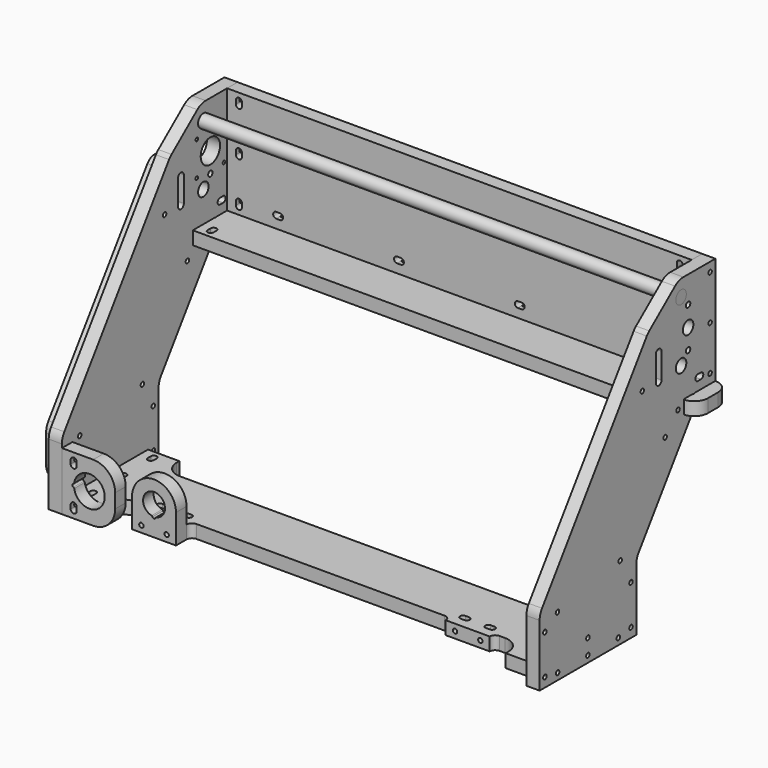
from build123d import *

# Parameters (mm, degrees)
F1_W      = 423
F1_H      = 98
F2_DEPTH  = 12
F4_DEPTH  = 12
F5_R      = 5.975
F5_R_2    = 11
F5_R_3    = 1.5
F5_R_4    = 2.5
F6_DEPTH  = 25
F7_R      = 6
F8_DEPTH  = 447
F9_R      = 5.975
F9_R_2    = 2.5
F9_R_3    = 6
F10_DEPTH = 12
F12_DEPTH = 12
F14_DEPTH = 12
F16_DEPTH = 25
F18_DEPTH = 12
F19_R     = 2
F20_DEPTH = 21
F22_DEPTH = 25
F23_R     = 2
F24_DEPTH = 21
F25_SIZE2 = 35
F25_SIZE  = 15
F26_SIZE2 = 15
F26_SIZE  = 35
F27_R     = 15
F27_2_R   = 15
F28_R     = 2
F29_DEPTH = 21
F31_DEPTH = 12
F32_R     = 15
F33_R     = 2
F34_DEPTH = 471.501
F35_R     = 2
F36_DEPTH = 12
F37_R     = 2
F38_DEPTH = 10
F39_R     = 1


with BuildPart() as f2:
    # F1 (on Front) → F2 (new body)
    with BuildSketch(Plane.XZ):
        with Locations((0, 49)):
            Rectangle(F1_W, F1_H)
    extrude(amount=F2_DEPTH)


with BuildPart() as f4:
    # F3 (on face) → F4 (new body)
    with BuildSketch(Plane(origin=(-211.5, 0, 0), x_dir=(0, -1, 0), z_dir=(-1, 0, 0))):
        Polygon((56.6998794181, 98), (0, 98), (0, 0), (24, 0), (24, -12), (90, -105.919646507), (90, -167), (200, -167), (200, -105.919646507), align=None)
    extrude(amount=F4_DEPTH)

    # F5 (on face) → F6 (cut)
    with BuildSketch(Plane.YZ.offset(-211.5)):
        with Locations((-39, 28)):
            Circle(F5_R)
        with Locations((-39, 83)):
            Circle(F5_R)
        with Locations((-31, 55.5)):
            Circle(F5_R_2)
        with Locations((-46.5, 71)):
            Circle(F5_R_3)
        with Locations((-46.5, 40)):
            Circle(F5_R_3)
        with Locations((-15.5, 40)):
            Circle(F5_R_3)
        with Locations((-15.5, 71)):
            Circle(F5_R_3)
        with Locations((-31, 73.75)):
            Circle(F5_R_4)
        with Locations((-31, 37.25)):
            Circle(F5_R_4)
    extrude(amount=-F6_DEPTH, mode=Mode.SUBTRACT)


with BuildPart() as f8:
    # F7 (on face) → F8 (new body)
    with BuildSketch(Plane(origin=(-223.5, 0, 0), x_dir=(0, -1, 0), z_dir=(-1, 0, 0))):
        with Locations((39, 83)):
            Circle(F7_R)
    extrude(amount=-F8_DEPTH)


with BuildPart() as f10:
    # F9 (on face) → F10 (new body)
    with BuildSketch(Plane.YZ.offset(211.5)):
        Polygon((-90, -167), (-90, -105.919646507), (-24, -12), (-24, 0), (0, 0), (0, 98), (-56.6998794181, 98), (-200, -105.919646507), (-200, -167), align=None)
        with Locations((-39, 28)):
            Circle(F9_R, mode=Mode.SUBTRACT)
        with Locations((-31, 37.25)):
            Circle(F9_R_2, mode=Mode.SUBTRACT)
        with Locations((-31, 55.5)):
            Circle(F9_R_3, mode=Mode.SUBTRACT)
        with Locations((-31, 73.75)):
            Circle(F9_R_2, mode=Mode.SUBTRACT)
        with Locations((-39, 83)):
            Circle(F9_R, mode=Mode.SUBTRACT)
    extrude(amount=F10_DEPTH)


with BuildPart() as f12:
    # F11 (on face) → F12 (new body)
    with BuildSketch(Plane.XZ.offset(200)):
        with BuildLine():
            Line((-211.5, -114), (-211.5, -167))
            Line((-211.5, -167), (-183, -167))
            ThreePointArc((-183, -167), (-168.8578643763, -161.1421356237), (-163, -147))
            Line((-163, -147), (-163, -134))
            ThreePointArc((-163, -134), (-168.8578643763, -119.8578643763), (-183, -114))
            Line((-183, -114), (-211.5, -114))
        make_face()
        with BuildLine():
            ThreePointArc((-200.2997078464, -138.2934895528), (-172.525, -140.5), (-200.2997078464, -142.7065104472))
            ThreePointArc((-200.2997078464, -142.7065104472), (-200.5218329376, -142.2207641448), (-200.9622987478, -141.9186401695))
            ThreePointArc((-200.9622987478, -141.9186401695), (-201.975, -140.5), (-200.9622987478, -139.0813598305))
            ThreePointArc((-200.9622987478, -139.0813598305), (-200.5218329376, -138.7792358552), (-200.2997078464, -138.2934895528))
        make_face(mode=Mode.SUBTRACT)
    extrude(amount=-F12_DEPTH)

    # F15 (on face) → F16 (cut)
    with BuildSketch(Plane.XZ.offset(200)):
        with BuildLine():
            ThreePointArc((-198, -120.75), (-200.75, -118), (-203.5, -120.75))
            Line((-203.5, -120.75), (-203.5, -124.25))
            ThreePointArc((-203.5, -124.25), (-200.75, -127), (-198, -124.25))
            Line((-198, -124.25), (-198, -120.75))
        make_face()
        with BuildLine():
            ThreePointArc((-203.5, -160.25), (-200.75, -163), (-198, -160.25))
            Line((-198, -160.25), (-198, -156.75))
            ThreePointArc((-198, -156.75), (-200.75, -154), (-203.5, -156.75))
            Line((-203.5, -156.75), (-203.5, -160.25))
        make_face()
    extrude(amount=-F16_DEPTH, mode=Mode.SUBTRACT)


with BuildPart() as f14:
    # F13 (on face) → F14 (new body)
    with BuildSketch(Plane(origin=(0, 0, -167), x_dir=(1, 0, 0), z_dir=(0, 0, -1))):
        with BuildLine():
            Line((-163, 170), (-168, 170))
            ThreePointArc((-168, 170), (-178.6066017178, 174.3933982822), (-183, 185))
            Line((-183, 185), (-183, 188))
            Line((-183, 188), (-211.5, 188))
            Line((-211.5, 188), (-211.5, 145))
            Line((-211.5, 145), (-211.5, 102))
            Line((-211.5, 102), (-183, 102))
            Line((-183, 102), (-183, 105))
            ThreePointArc((-183, 105), (-178.6066017178, 115.6066017178), (-168, 120))
            Line((-168, 120), (0, 120))
            Line((0, 120), (168, 120))
            ThreePointArc((168, 120), (178.6066017178, 115.6066017178), (183, 105))
            Line((183, 105), (183, 102))
            Line((183, 102), (211.5, 102))
            Line((211.5, 102), (211.5, 145))
            Line((211.5, 145), (211.5, 188))
            Line((211.5, 188), (183, 188))
            Line((183, 188), (183, 185))
            ThreePointArc((183, 185), (178.6066017178, 174.3933982822), (168, 170))
            Line((168, 170), (163, 170))
            ThreePointArc((163, 170), (159.4644660941, 171.4644660941), (158, 175))
            Line((158, 175), (118, 175))
            ThreePointArc((118, 175), (116.5355339059, 171.4644660941), (113, 170))
            Line((113, 170), (0, 170))
            Line((0, 170), (-113, 170))
            ThreePointArc((-113, 170), (-116.5355339059, 171.4644660941), (-118, 175))
            Line((-118, 175), (-158, 175))
            ThreePointArc((-158, 175), (-159.4644660941, 171.4644660941), (-163, 170))
        make_face()
        with BuildLine():
            Line((-198, 112.25), (-198, 108.75))
            ThreePointArc((-198, 108.75), (-200.75, 106), (-203.5, 108.75))
            Line((-203.5, 108.75), (-203.5, 112.25))
            ThreePointArc((-203.5, 112.25), (-200.75, 115), (-198, 112.25))
        make_face(mode=Mode.SUBTRACT)
        with BuildLine():
            ThreePointArc((203.5, 108.75), (200.75, 106), (198, 108.75))
            Line((198, 108.75), (198, 112.25))
            ThreePointArc((198, 112.25), (200.75, 115), (203.5, 112.25))
            Line((203.5, 112.25), (203.5, 108.75))
        make_face(mode=Mode.SUBTRACT)
        with BuildLine():
            Line((-198, 146.75), (-198, 143.25))
            ThreePointArc((-198, 143.25), (-200.75, 140.5), (-203.5, 143.25))
            Line((-203.5, 143.25), (-203.5, 146.75))
            ThreePointArc((-203.5, 146.75), (-200.75, 149.5), (-198, 146.75))
        make_face(mode=Mode.SUBTRACT)
        with BuildLine():
            Line((-147.75, 161), (-151.25, 161))
            ThreePointArc((-151.25, 161), (-154, 163.75), (-151.25, 166.5))
            Line((-151.25, 166.5), (-147.75, 166.5))
            ThreePointArc((-147.75, 166.5), (-145, 163.75), (-147.75, 161))
        make_face(mode=Mode.SUBTRACT)
        with BuildLine():
            ThreePointArc((-128.25, 161), (-131, 163.75), (-128.25, 166.5))
            Line((-128.25, 166.5), (-124.75, 166.5))
            ThreePointArc((-124.75, 166.5), (-122, 163.75), (-124.75, 161))
            Line((-124.75, 161), (-128.25, 161))
        make_face(mode=Mode.SUBTRACT)
        with BuildLine():
            ThreePointArc((-198, 177.75), (-200.75, 175), (-203.5, 177.75))
            Line((-203.5, 177.75), (-203.5, 181.25))
            ThreePointArc((-203.5, 181.25), (-200.75, 184), (-198, 181.25))
            Line((-198, 181.25), (-198, 177.75))
        make_face(mode=Mode.SUBTRACT)
        with BuildLine():
            Line((203.5, 146.75), (203.5, 143.25))
            ThreePointArc((203.5, 143.25), (200.75, 140.5), (198, 143.25))
            Line((198, 143.25), (198, 146.75))
            ThreePointArc((198, 146.75), (200.75, 149.5), (203.5, 146.75))
        make_face(mode=Mode.SUBTRACT)
        with BuildLine():
            ThreePointArc((124.75, 161), (122, 163.75), (124.75, 166.5))
            Line((124.75, 166.5), (128.25, 166.5))
            ThreePointArc((128.25, 166.5), (131, 163.75), (128.25, 161))
            Line((128.25, 161), (124.75, 161))
        make_face(mode=Mode.SUBTRACT)
        with BuildLine():
            Line((147.75, 166.5), (151.25, 166.5))
            ThreePointArc((151.25, 166.5), (154, 163.75), (151.25, 161))
            Line((151.25, 161), (147.75, 161))
            ThreePointArc((147.75, 161), (145, 163.75), (147.75, 166.5))
        make_face(mode=Mode.SUBTRACT)
        with BuildLine():
            ThreePointArc((198, 181.25), (200.75, 184), (203.5, 181.25))
            Line((203.5, 181.25), (203.5, 177.75))
            ThreePointArc((203.5, 177.75), (200.75, 175), (198, 177.75))
            Line((198, 177.75), (198, 181.25))
        make_face(mode=Mode.SUBTRACT)
    extrude(amount=-F14_DEPTH)


with BuildPart() as f18:
    # F17 (on face) → F18 (new body)
    with BuildSketch(Plane(origin=(0, 0, 0), x_dir=(1, 0, 0), z_dir=(0, 0, -1))):
        with BuildLine():
            ThreePointArc((-236, 12.5), (-232.3388347648, 3.6611652352), (-223.5, 0))
            Line((-223.5, 0), (223.5, 0))
            ThreePointArc((223.5, 0), (232.3388347648, 3.6611652352), (236, 12.5))
            Line((236, 12.5), (236, 24))
            ThreePointArc((236, 24), (232.7151222597, 32.4457990587), (224.5869565217, 36.452651345))
            ThreePointArc((224.5869565217, 36.452651345), (223.8243360753, 36.1936490182), (223.5, 35.4564392374))
            Line((223.5, 35.4564392374), (223.5, 26.1213203436))
            ThreePointArc((223.5, 26.1213203436), (223.5, 24), (221.3786796564, 24))
            Line((221.3786796564, 24), (213.6213203436, 24))
            ThreePointArc((213.6213203436, 24), (211.5, 24), (211.5, 26.1213203436))
            Line((211.5, 26.1213203436), (211.5, 51))
            Line((211.5, 51), (0, 51))
            Line((0, 51), (-211.5, 51))
            Line((-211.5, 51), (-211.5, 26.1213203436))
            ThreePointArc((-211.5, 26.1213203436), (-211.5, 24), (-213.6213203436, 24))
            Line((-213.6213203436, 24), (-221.3786796564, 24))
            ThreePointArc((-221.3786796564, 24), (-223.5, 24), (-223.5, 26.1213203436))
            Line((-223.5, 26.1213203436), (-223.5, 35.4564392374))
            ThreePointArc((-223.5, 35.4564392374), (-223.8243360753, 36.1936490182), (-224.5869565217, 36.452651345))
            ThreePointArc((-224.5869565217, 36.452651345), (-232.7151222597, 32.4457990587), (-236, 24))
            Line((-236, 24), (-236, 12.5))
        make_face()
    extrude(amount=F18_DEPTH)


with BuildPart() as f20_tool:
    # F19 (on face) → F20 (new body)
    with BuildSketch(Plane(origin=(-223.5, 0, 0), x_dir=(0, -1, 0), z_dir=(-1, 0, 0))):
        with Locations((194, -158.5)):
            Circle(F19_R)
        with Locations((194, -122.5)):
            Circle(F19_R)
        with Locations((96, -122.5)):
            Circle(F19_R)
        with Locations((96, -158.5)):
            Circle(F19_R)
        with Locations((179.5, -161)):
            Circle(F19_R)
        with Locations((145, -161)):
            Circle(F19_R)
        with Locations((110.5, -161)):
            Circle(F19_R)
        with Locations((6, 89.5)):
            Circle(F19_R)
        with Locations((6, 49)):
            Circle(F19_R)
        with Locations((6, 8.5)):
            Circle(F19_R)
        with BuildLine():
            ThreePointArc((16.5, 13.5), (13.75, 10.75), (16.5, 8))
            Line((16.5, 8), (20, 8))
            ThreePointArc((20, 8), (22.75, 10.75), (20, 13.5))
            Line((20, 13.5), (16.5, 13.5))
        make_face()
        with Locations((42.5, -6)):
            Circle(F19_R)
    extrude(amount=-F20_DEPTH)


with BuildPart() as f2_1:
    add(f2.part)

    # F20: cut by f20_tool
    add(f20_tool.part, mode=Mode.SUBTRACT)

    # F21 (on face) → F22 (cut)
    with BuildSketch(Plane(origin=(0, 0, 0), x_dir=(-1, 0, 0), z_dir=(0, 1, 0))):
        with BuildLine():
            ThreePointArc((203.5, 91.25), (200.75, 94), (198, 91.25))
            Line((198, 91.25), (198, 87.75))
            ThreePointArc((198, 87.75), (200.75, 85), (203.5, 87.75))
            Line((203.5, 87.75), (203.5, 91.25))
        make_face()
        with BuildLine():
            ThreePointArc((203.5, 50.75), (200.75, 53.5), (198, 50.75))
            Line((198, 50.75), (198, 47.25))
            ThreePointArc((198, 47.25), (200.75, 44.5), (203.5, 47.25))
            Line((203.5, 47.25), (203.5, 50.75))
        make_face()
        with BuildLine():
            ThreePointArc((203.5, 10.25), (200.75, 13), (198, 10.25))
            Line((198, 10.25), (198, 6.75))
            ThreePointArc((198, 6.75), (200.75, 4), (203.5, 6.75))
            Line((203.5, 6.75), (203.5, 10.25))
        make_face()
        with BuildLine():
            Line((-198, 87.75), (-198, 91.25))
            ThreePointArc((-198, 91.25), (-200.75, 94), (-203.5, 91.25))
            Line((-203.5, 91.25), (-203.5, 87.75))
            ThreePointArc((-203.5, 87.75), (-200.75, 85), (-198, 87.75))
        make_face()
        with BuildLine():
            Line((-198, 47.25), (-198, 50.75))
            ThreePointArc((-198, 50.75), (-200.75, 53.5), (-203.5, 50.75))
            Line((-203.5, 50.75), (-203.5, 47.25))
            ThreePointArc((-203.5, 47.25), (-200.75, 44.5), (-198, 47.25))
        make_face()
        with BuildLine():
            ThreePointArc((-198, 10.25), (-200.75, 13), (-203.5, 10.25))
            Line((-203.5, 10.25), (-203.5, 6.75))
            ThreePointArc((-203.5, 6.75), (-200.75, 4), (-198, 6.75))
            Line((-198, 6.75), (-198, 10.25))
        make_face()
        with BuildLine():
            ThreePointArc((-163.25, 8), (-160.5, 10.75), (-163.25, 13.5))
            Line((-163.25, 13.5), (-166.75, 13.5))
            ThreePointArc((-166.75, 13.5), (-169.5, 10.75), (-166.75, 8))
            Line((-166.75, 8), (-163.25, 8))
        make_face()
        with BuildLine():
            ThreePointArc((-56.75, 13.5), (-59.5, 10.75), (-56.75, 8))
            Line((-56.75, 8), (-53.25, 8))
            ThreePointArc((-53.25, 8), (-50.5, 10.75), (-53.25, 13.5))
            Line((-53.25, 13.5), (-56.75, 13.5))
        make_face()
        with BuildLine():
            ThreePointArc((53.25, 13.5), (50.5, 10.75), (53.25, 8))
            Line((53.25, 8), (56.75, 8))
            ThreePointArc((56.75, 8), (59.5, 10.75), (56.75, 13.5))
            Line((56.75, 13.5), (53.25, 13.5))
        make_face()
        with BuildLine():
            ThreePointArc((163.25, 13.5), (160.5, 10.75), (163.25, 8))
            Line((163.25, 8), (166.75, 8))
            ThreePointArc((166.75, 8), (169.5, 10.75), (166.75, 13.5))
            Line((166.75, 13.5), (163.25, 13.5))
        make_face()
    extrude(amount=-F22_DEPTH, mode=Mode.SUBTRACT)


with BuildPart() as f4_1:
    add(f4.part)

    # F20: cut by f20_tool
    add(f20_tool.part, mode=Mode.SUBTRACT)

    # F25
    f25_edges = [f4_1.edges().sort_by_distance(p)[0] for p in [
        (-217.5, -56.699879, 98),
    ]]
    f25_side = f4_1.faces().sort_by_distance((-217.5, -28.34994, 98))[0]
    chamfer(f25_edges, length=F25_SIZE, length2=F25_SIZE2, reference=f25_side)

    # F27
    f27_edges = [f4_1.edges().sort_by_distance(p)[0] for p in [
        (-217.5, -200, -105.919647),
        (-217.5, -90, -105.919647),
        (-217.5, -41.699879, 98),
        (-217.5, -76.823465, 69.363636),
    ]]
    fillet(f27_edges, radius=F27_R)


with BuildPart() as f12_1:
    add(f12.part)

    # F20: cut by f20_tool
    add(f20_tool.part, mode=Mode.SUBTRACT)


with BuildPart() as f14_1:
    add(f14.part)

    # F20: cut by f20_tool
    add(f20_tool.part, mode=Mode.SUBTRACT)


with BuildPart() as f18_1:
    add(f18.part)

    # F20: cut by f20_tool
    add(f20_tool.part, mode=Mode.SUBTRACT)


with BuildPart() as f24_tool:
    # F23 (on face) → F24 (new body)
    with BuildSketch(Plane.YZ.offset(223.5)):
        with Locations((-96, -122.5)):
            Circle(F23_R)
        with Locations((-96, -158.5)):
            Circle(F23_R)
        with Locations((-110.5, -161)):
            Circle(F23_R)
        with Locations((-145, -161)):
            Circle(F23_R)
        with Locations((-179.5, -161)):
            Circle(F23_R)
        with Locations((-194, -158.5)):
            Circle(F23_R)
        with Locations((-194, -122.5)):
            Circle(F23_R)
        with Locations((-6, 8.5)):
            Circle(F23_R)
        with Locations((-6, 49)):
            Circle(F23_R)
        with Locations((-6, 89.5)):
            Circle(F23_R)
        with Locations((-42.5, -6)):
            Circle(F23_R)
        with BuildLine():
            Line((-20, 8), (-16.5, 8))
            ThreePointArc((-16.5, 8), (-13.75, 10.75), (-16.5, 13.5))
            Line((-16.5, 13.5), (-20, 13.5))
            ThreePointArc((-20, 13.5), (-22.75, 10.75), (-20, 8))
        make_face()
    extrude(amount=-F24_DEPTH)


with BuildPart() as f2_2:
    add(f2_1.part)

    # F24: cut by f24_tool
    add(f24_tool.part, mode=Mode.SUBTRACT)


with BuildPart() as f10_1:
    add(f10.part)

    # F24: cut by f24_tool
    add(f24_tool.part, mode=Mode.SUBTRACT)

    # F26
    f26_edges = [f10_1.edges().sort_by_distance(p)[0] for p in [
        (217.5, -56.699879, 98),
    ]]
    f26_side = f10_1.faces().sort_by_distance((217.5, -128.34994, -3.959823))[0]
    chamfer(f26_edges, length=F26_SIZE, length2=F26_SIZE2, reference=f26_side)

    # F27#2
    f27_2_edges = [f10_1.edges().sort_by_distance(p)[0] for p in [
        (217.5, -200, -105.919647),
        (217.5, -90, -105.919647),
        (217.5, -41.699879, 98),
        (217.5, -76.823465, 69.363636),
    ]]
    fillet(f27_2_edges, radius=F27_2_R)


with BuildPart() as f14_2:
    add(f14_1.part)

    # F24: cut by f24_tool
    add(f24_tool.part, mode=Mode.SUBTRACT)

    # F37 (on face) → F38 (cut)
    with BuildSketch(Plane.XZ.offset(175)):
        with Locations((-149.5, -161)):
            Circle(F37_R)
        with Locations((-126.5, -161)):
            Circle(F37_R)
        with Locations((149.5, -161)):
            Circle(F37_R)
        with Locations((126.5, -161)):
            Circle(F37_R)
    extrude(amount=-F38_DEPTH, mode=Mode.SUBTRACT)


with BuildPart() as f18_2:
    add(f18_1.part)

    # F24: cut by f24_tool
    add(f24_tool.part, mode=Mode.SUBTRACT)


with BuildPart() as f29_tool:
    # F28 (on face) → F29 (new body)
    with BuildSketch(Plane(origin=(0, 0, -12), x_dir=(1, 0, 0), z_dir=(0, 0, -1))):
        with Locations((-217.5, 18.25)):
            Circle(F28_R)
        with BuildLine():
            ThreePointArc((-198, 44.25), (-200.75, 47), (-203.5, 44.25))
            Line((-203.5, 44.25), (-203.5, 40.75))
            ThreePointArc((-203.5, 40.75), (-200.75, 38), (-198, 40.75))
            Line((-198, 40.75), (-198, 44.25))
        make_face()
        with Locations((217.5, 18.25)):
            Circle(F28_R)
        with BuildLine():
            Line((203.5, 40.75), (203.5, 44.25))
            ThreePointArc((203.5, 44.25), (200.75, 47), (198, 44.25))
            Line((198, 44.25), (198, 40.75))
            ThreePointArc((198, 40.75), (200.75, 38), (203.5, 40.75))
        make_face()
        with Locations((-165, 6)):
            Circle(F28_R)
        with Locations((-55, 6)):
            Circle(F28_R)
        with Locations((55, 6)):
            Circle(F28_R)
        with Locations((165, 6)):
            Circle(F28_R)
    extrude(amount=-F29_DEPTH)


with BuildPart() as f2_3:
    add(f2_2.part)

    # F29: cut by f29_tool
    add(f29_tool.part, mode=Mode.SUBTRACT)


with BuildPart() as f4_2:
    add(f4_1.part)

    # F29: cut by f29_tool
    add(f29_tool.part, mode=Mode.SUBTRACT)


with BuildPart() as f10_2:
    add(f10_1.part)

    # F29: cut by f29_tool
    add(f29_tool.part, mode=Mode.SUBTRACT)


with BuildPart() as f18_3:
    add(f18_2.part)

    # F29: cut by f29_tool
    add(f29_tool.part, mode=Mode.SUBTRACT)

    # F39
    f39_edges = [f18_3.edges().sort_by_distance(p)[0] for p in [
        (223.5, -26.12132, -6),
        (221.37868, -24, -6),
        (213.62132, -24, -6),
        (211.5, -26.12132, -6),
        (-223.5, -26.12132, -6),
        (-221.37868, -24, -6),
        (-213.62132, -24, -6),
        (-211.5, -26.12132, -6),
    ]]
    fillet(f39_edges, radius=F39_R)


with BuildPart() as f31:
    # F30 (on face) → F31 (new body)
    with BuildSketch(Plane(origin=(-223.5, 0, 0), x_dir=(0, -1, 0), z_dir=(-1, 0, 0))):
        with BuildLine():
            Line((102, -155), (188, -155))
            Line((188, -155), (188, -114.4577961895))
            ThreePointArc((188, -114.4577961895), (187.3019388387, -109.9351260208), (185.2727272727, -105.8334025708))
            Line((185.2727272727, -105.8334025708), (72.6818181818, 54.3862698795))
            ThreePointArc((72.6818181818, 54.3862698795), (61.4848865542, 58.1713000262), (54.5, 48.6366741337))
            Line((54.5, 48.6366741337), (54.5, -6))
            ThreePointArc((54.5, -6), (51.1181785773, -14.3502693376), (42.878833665, -17.9940187199))
            Line((42.878833665, -17.9940187199), (97.0909090909, -95.1391544837))
            ThreePointArc((97.0909090909, -95.1391544837), (100.7434899096, -102.5222566937), (102, -110.6630629973))
            Line((102, -110.6630629973), (102, -155))
        make_face()
    extrude(amount=F31_DEPTH)

    # F32
    f32_edges = [f31.edges().sort_by_distance(p)[0] for p in [
        (-229.5, -42.878834, -17.994019),
        (-229.5, -102, -155),
        (-229.5, -188, -155),
    ]]
    fillet(f32_edges, radius=F32_R)


with BuildPart() as f34_tool:
    # F33 (on face) → F34 (new body, through all)
    with BuildSketch(Plane(origin=(-235.5, 0, 0), x_dir=(0, -1, 0), z_dir=(-1, 0, 0))):
        with BuildLine():
            ThreePointArc((67.75, 48.6366741337), (64.5, 51.8866741337), (61.25, 48.6366741337))
            Line((61.25, 48.6366741337), (61.25, 25.6366741337))
            ThreePointArc((61.25, 25.6366741337), (64.5, 22.3866741337), (67.75, 25.6366741337))
            Line((67.75, 25.6366741337), (67.75, 48.6366741337))
        make_face()
        with Locations((57.1357050333, -22.0525141937)):
            Circle(F33_R)
        with Locations((108.3711906236, -100.110165937)):
            Circle(F33_R)
        with Locations((145, -147)):
            Circle(F33_R)
        with Locations((179.6742381247, -112.3472167774)):
            Circle(F33_R)
        with Locations((83.1071969297, 25.6366741337)):
            Circle(F33_R)
    extrude(amount=-F34_DEPTH)


with BuildPart() as f4_3:
    add(f4_2.part)

    # F34: cut by f34_tool
    add(f34_tool.part, mode=Mode.SUBTRACT)


with BuildPart() as f10_3:
    add(f10_2.part)

    # F34: cut by f34_tool
    add(f34_tool.part, mode=Mode.SUBTRACT)


with BuildPart() as f31_1:
    add(f31.part)

    # F34: cut by f34_tool
    add(f34_tool.part, mode=Mode.SUBTRACT)


with BuildPart() as f36:
    # F35 (on face) → F36 (new body)
    with BuildSketch(Plane.XZ.offset(175)):
        with BuildLine():
            Line((-158, -140.5), (-158, -167))
            Line((-158, -167), (-118, -167))
            Line((-118, -167), (-118, -140.5))
            ThreePointArc((-118, -140.5), (-138, -120.5), (-158, -140.5))
        make_face()
        with Locations((-149.5, -161)):
            Circle(F35_R, mode=Mode.SUBTRACT)
        with Locations((-126.5, -161)):
            Circle(F35_R, mode=Mode.SUBTRACT)
        with BuildLine():
            ThreePointArc((-140.1712745198, -150.2358200456), (-138, -130.525), (-135.8287254802, -150.2358200456))
            ThreePointArc((-135.8287254802, -150.2358200456), (-136.2894094573, -150.4771083652), (-136.5666323095, -150.9171052632))
            ThreePointArc((-136.5666323095, -150.9171052632), (-138, -151.975), (-139.4333676905, -150.9171052632))
            ThreePointArc((-139.4333676905, -150.9171052632), (-139.7105905427, -150.4771083652), (-140.1712745198, -150.2358200456))
        make_face(mode=Mode.SUBTRACT)
    extrude(amount=F36_DEPTH)


solid = Compound([f8.part, f12_1.part, f14_2.part, f2_3.part, f18_3.part, f4_3.part, f10_3.part, f31_1.part, f36.part])
